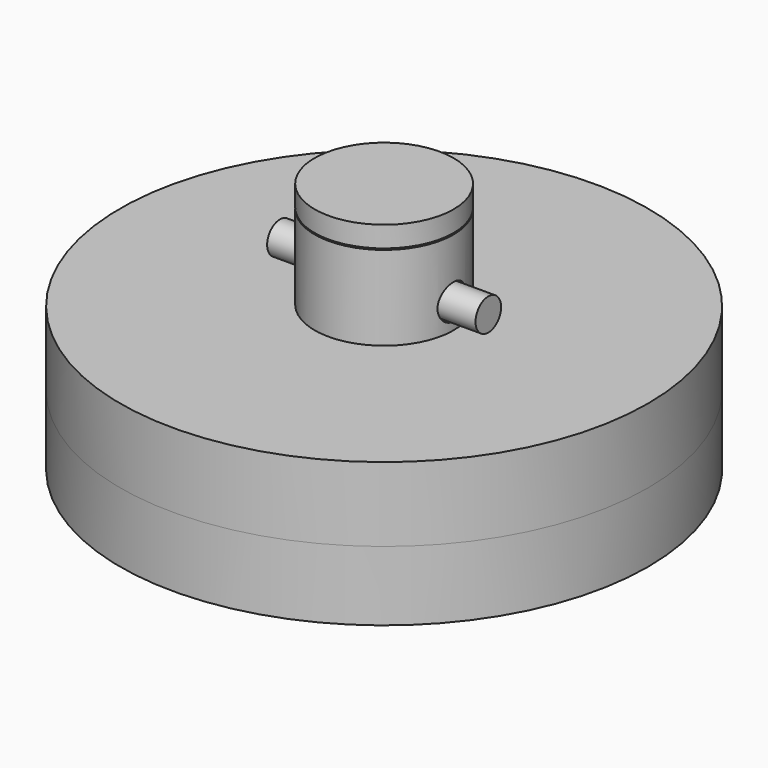
from build123d import *

# Parameters (mm, degrees)
SKETCH003_R  = 2.5
POCKET_DEPTH = 50
SKETCH004_R  = 2.3
PAD_DEPTH    = 15


with BuildPart() as body:
    # Sketch → Revolution (revolve)
    with BuildSketch(Plane.XZ):
        with BuildLine():
            ThreePointArc((30, 0), (15.323223, 4.679338), (0, 6.261365))
            Line((0, 6.261365), (0, -6))
            Line((0, -6), (38, -6))
            Line((38, -6), (38, 4))
            Line((33, 4), (38, 4))
            Line((33, 0), (33, 4))
            Line((30, 0), (33, 0))
        make_face()
    revolve(axis=Axis((0, 0, 0), (0, 0, 1)))


with BuildPart() as body001:
    # Sketch001 → Revolution001 (revolve)
    with BuildSketch(Plane.XZ):
        with BuildLine():
            ThreePointArc((32.8, 0), (20.981494, 7.646721), (7.5, 11.696255))
            Line((7.5, 11.696255), (7.5, 14.696255))
            Line((7.5, 14.696255), (38, 14.696255))
            Line((38, 14.696255), (38, 4))
            Line((32.8, 4), (38, 4))
            Line((32.8, 0), (32.8, 4))
        make_face()
    revolve(axis=Axis((0, 0, 0), (0, 0, 1)))


with BuildPart() as body002:
    # Sketch002 → Revolution002 (revolve)
    with BuildSketch(Plane.XZ):
        Polygon((6, 27), (6, 12), (7.3, 12), (7.3, 14.86637), (10, 14.86637), (10, 27), align=None)
    revolve(axis=Axis((0, 0, 0), (0, 0, 1)))

    # Sketch003 (on DatumPlane) → Pocket (cut)
    with BuildSketch(Plane(origin=(10, 0, 27), x_dir=(0, 0, -1), z_dir=(1, 0, 0))):
        with Locations((8.5, 0)):
            Circle(SKETCH003_R)
    extrude(amount=-POCKET_DEPTH, mode=Mode.SUBTRACT)


with BuildPart() as body003:
    # Sketch004 → Pad (new body, symmetric)
    with BuildSketch(Plane.YZ):
        with Locations((0, 18.5)):
            Circle(SKETCH004_R)
    extrude(amount=PAD_DEPTH, both=True)


with BuildPart() as body004:
    # Sketch005 → Revolution003 (revolve)
    with BuildSketch(Plane.XZ):
        Polygon((0, 26.2), (0, 30.2), (10, 30.2), (10, 27.2), (5.8, 27.2), (5.8, 26.2), align=None)
    revolve(axis=Axis((0, 0, 0), (0, 0, 1)))


solid = Compound([body.part, body001.part, body002.part, body003.part, body004.part])
